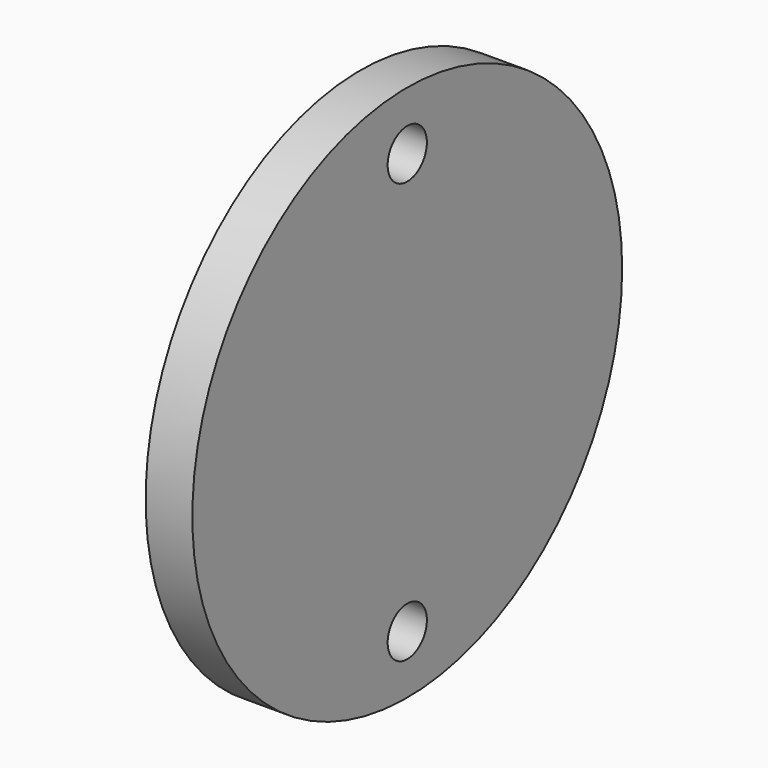
from build123d import *

# Parameters (mm, degrees)
F0_R     = 11.5
F0_R_2   = 1.05
F1_DEPTH = 2
F2_W     = 8.8
F2_H     = 8.8
F3_DEPTH = 2.1


with BuildPart() as f1:
    # F0 (on Right) → F1 (new body)
    with BuildSketch(Plane.YZ):
        Circle(F0_R)
        with Locations((0, -9)):
            Circle(F0_R_2, mode=Mode.SUBTRACT)
        with Locations((0, 9)):
            Circle(F0_R_2, mode=Mode.SUBTRACT)
    extrude(amount=F1_DEPTH)

    # F2 (on face) → F3 (join)
    with BuildSketch(Plane(origin=(0, 0, 0), x_dir=(0, -1, 0), z_dir=(-1, 0, 0))):
        Rectangle(F2_W, F2_H)
        with BuildLine():
            ThreePointArc((-3, 2), (-2.707107, 2.707107), (-2, 3))
            Line((-2, 3), (2, 3))
            ThreePointArc((2, 3), (2.707107, 2.707107), (3, 2))
            Line((3, 2), (3, -2))
            ThreePointArc((3, -2), (2.707107, -2.707107), (2, -3))
            Line((2, -3), (-2, -3))
            ThreePointArc((-2, -3), (-2.707107, -2.707107), (-3, -2))
            Line((-3, -2), (-3, 2))
        make_face(mode=Mode.SUBTRACT)
    extrude(amount=F3_DEPTH)


solid = f1.part
